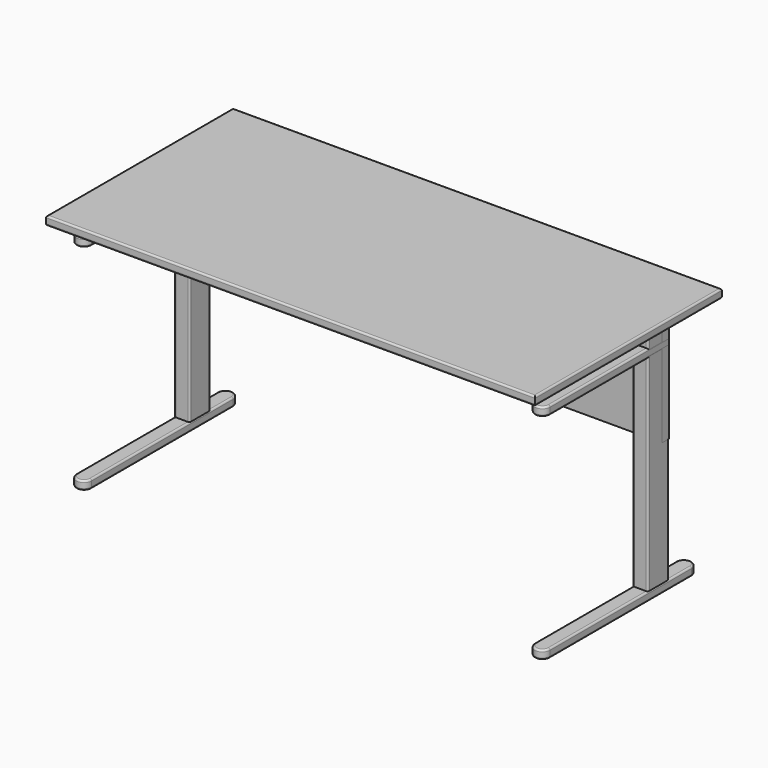
from build123d import *

# Parameters (mm, degrees)
F1_DEPTH  = 25.4
F3_W      = 44.45
F3_H      = 76.2
F4_DEPTH  = 660.4
F7_DEPTH  = 25.4
F10_DEPTH = 25.4
F12_W     = 1422.4
F12_H     = 679.45
F13_DEPTH = 25.4
F14_R     = 5.08
F14_2_R   = 5.08
F15_R     = 5.08
F15_2_R   = 5.08
F15_3_R   = 5.08
F15_4_R   = 5.08
F16_R     = 5.08


with BuildPart() as f1:
    # F0 (on Top) → F1 (new body)
    with BuildSketch(Plane.XY):
        with BuildLine():
            Line((688.975, -257.6210796833), (688.975, 256.7289203167))
            ThreePointArc((688.975, 256.7289203167), (666.75, 278.9539203167), (644.525, 256.7289203167))
            Line((644.525, 256.7289203167), (644.525, -257.6210796833))
            ThreePointArc((644.525, -257.6210796833), (666.75, -279.8460796833), (688.975, -257.6210796833))
        make_face()
    extrude(amount=F1_DEPTH)

    # F15#2
    f15_2_edges = [f1.edges().sort_by_distance(p)[0] for p in [
        (688.975, -0.44608, 25.4),
        (688.975, -0.44608, 0),
        (644.525, -0.44608, 25.4),
        (644.525, -0.44608, 0),
        (666.75, -279.84608, 25.4),
        (666.75, -279.84608, 0),
    ]]
    fillet(f15_2_edges, radius=F15_2_R)


with BuildPart() as f1b:
    # F0 (on Top) → F1, piece 2 (new body)
    with BuildSketch(Plane.XY):
        with BuildLine():
            ThreePointArc((-688.975, -257.6210796833), (-666.75, -279.8460796833), (-644.525, -257.6210796833))
            Line((-644.525, -257.6210796833), (-644.525, 256.7289203167))
            ThreePointArc((-644.525, 256.7289203167), (-666.75, 278.9539203167), (-688.975, 256.7289203167))
            Line((-688.975, 256.7289203167), (-688.975, -257.6210796833))
        make_face()
    extrude(amount=F1_DEPTH)

    # F15
    f15_edges = [f1b.edges().sort_by_distance(p)[0] for p in [
        (-644.525, -0.44608, 25.4),
        (-644.525, -0.44608, 0),
        (-688.975, -0.44608, 25.4),
        (-688.975, -0.44608, 0),
        (-666.75, -279.84608, 25.4),
        (-666.75, -279.84608, 0),
    ]]
    fillet(f15_edges, radius=F15_R)


with BuildPart() as f4:
    # F3 (on offset) → F4 (new body)
    with BuildSketch(Plane.XY.offset(25.4)):
        with Locations((666.5847078323, 136.525)):
            Rectangle(F3_W, F3_H)
    extrude(amount=F4_DEPTH)

    # F14#2
    f14_2_edges = [f4.edges().sort_by_distance(p)[0] for p in [
        (644.359708, 174.625, 355.6),
        (688.809708, 174.625, 355.6),
        (688.809708, 98.425, 355.6),
        (644.359708, 98.425, 355.6),
    ]]
    fillet(f14_2_edges, radius=F14_2_R)


with BuildPart() as f4b:
    # F3 (on offset) → F4, piece 2 (new body)
    with BuildSketch(Plane.XY.offset(25.4)):
        with Locations((-666.5847078323, 136.525)):
            Rectangle(F3_W, F3_H)
    extrude(amount=F4_DEPTH)

    # F14
    f14_edges = [f4b.edges().sort_by_distance(p)[0] for p in [
        (-688.809708, 174.625, 355.6),
        (-644.359708, 174.625, 355.6),
        (-644.359708, 98.425, 355.6),
        (-688.809708, 98.425, 355.6),
    ]]
    fillet(f14_edges, radius=F14_R)


with BuildPart() as f7:
    # F6 (on offset) → F7 (new body)
    with BuildSketch(Plane(origin=(0, 174.625, 0), x_dir=(-1, 0, 0), z_dir=(0, 1, 0))):
        Polygon((688.975, 685.8), (0, 685.8), (-688.975, 685.8), (-688.975, 386.0016167164), (0, 386.0016167164), (688.975, 386.0016167164), align=None)
    extrude(amount=-F7_DEPTH)


with BuildPart() as f10:
    # F9 (on offset) → F10 (new body)
    with BuildSketch(Plane.XY.offset(647.7)):
        with BuildLine():
            Line((-688.975, 175.4914522171), (-688.975, -257.175))
            ThreePointArc((-688.975, -257.175), (-666.75, -279.4), (-644.525, -257.175))
            Line((-644.525, -257.175), (-644.525, 175.4914522171))
            Line((-644.525, 175.4914522171), (-688.975, 175.4914522171))
        make_face()
    extrude(amount=-F10_DEPTH)

    # F15#3
    f15_3_edges = [f10.edges().sort_by_distance(p)[0] for p in [
        (-688.975, -40.841774, 647.7),
        (-688.975, -40.841774, 622.3),
        (-644.525, -40.841774, 647.7),
        (-644.525, -40.841774, 622.3),
        (-666.75, -279.4, 647.7),
        (-666.75, -279.4, 622.3),
    ]]
    fillet(f15_3_edges, radius=F15_3_R)


with BuildPart() as f10b:
    # F9 (on offset) → F10, piece 2 (new body)
    with BuildSketch(Plane.XY.offset(647.7)):
        with BuildLine():
            Line((644.525, 175.4914522171), (644.525, -257.175))
            ThreePointArc((644.525, -257.175), (666.75, -279.4), (688.975, -257.175))
            Line((688.975, -257.175), (688.975, 175.4914522171))
            Line((688.975, 175.4914522171), (644.525, 175.4914522171))
        make_face()
    extrude(amount=-F10_DEPTH)

    # F15#4
    f15_4_edges = [f10b.edges().sort_by_distance(p)[0] for p in [
        (688.975, -40.841774, 647.7),
        (688.975, -40.841774, 622.3),
        (666.75, -279.4, 647.7),
        (666.75, -279.4, 622.3),
        (644.525, -40.841774, 647.7),
        (644.525, -40.841774, 622.3),
    ]]
    fillet(f15_4_edges, radius=F15_4_R)


with BuildPart() as f13:
    # F12 (on offset) → F13 (new body)
    with BuildSketch(Plane.XY.offset(685.8)):
        Rectangle(F12_W, F12_H)
    extrude(amount=F13_DEPTH)

    # F16
    f16_edges = [f13.edges().sort_by_distance(p)[0] for p in [
        (711.2, 0, 711.2),
        (0, 339.725, 711.2),
        (-711.2, 0, 711.2),
        (0, -339.725, 711.2),
        (711.2, 0, 685.8),
        (0, 339.725, 685.8),
        (-711.2, 0, 685.8),
        (0, -339.725, 685.8),
    ]]
    fillet(f16_edges, radius=F16_R)


solid = Compound([f1.part, f1b.part, f4.part, f4b.part, f7.part, f10.part, f10b.part, f13.part])
